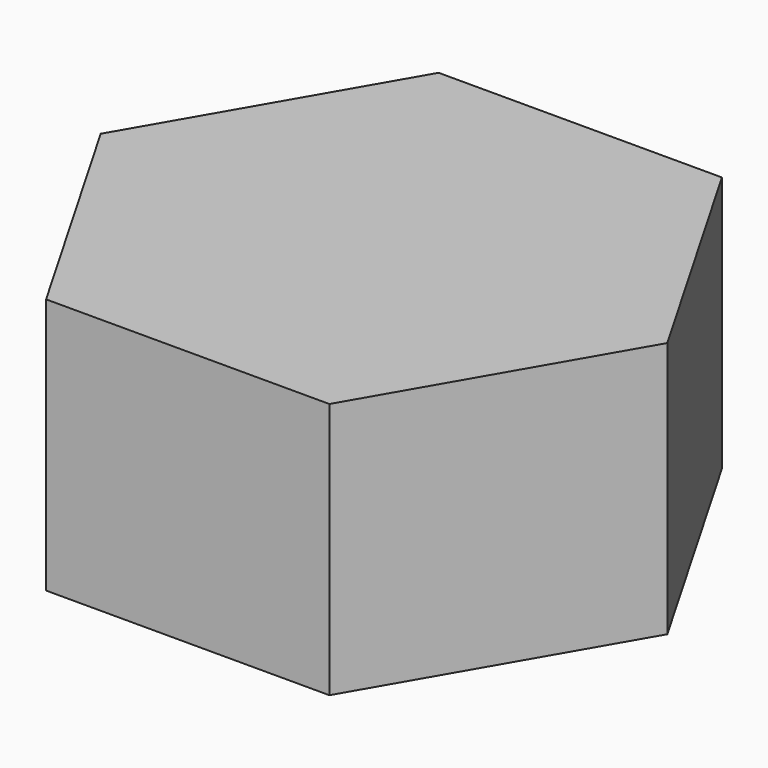
from build123d import *

# Parameters (mm, degrees)
EXTRUDE_DEPTH = 5


with BuildPart() as part:
    # Sketch → Extrude (new body)
    with BuildSketch(Plane.XY):
        Polygon((-5.525, 0), (-2.7625, -4.78479), (2.7625, -4.78479), (5.525, 0), (2.7625, 4.78479), (-2.7625, 4.78479), align=None)
    extrude(amount=EXTRUDE_DEPTH)


solid = part.part
